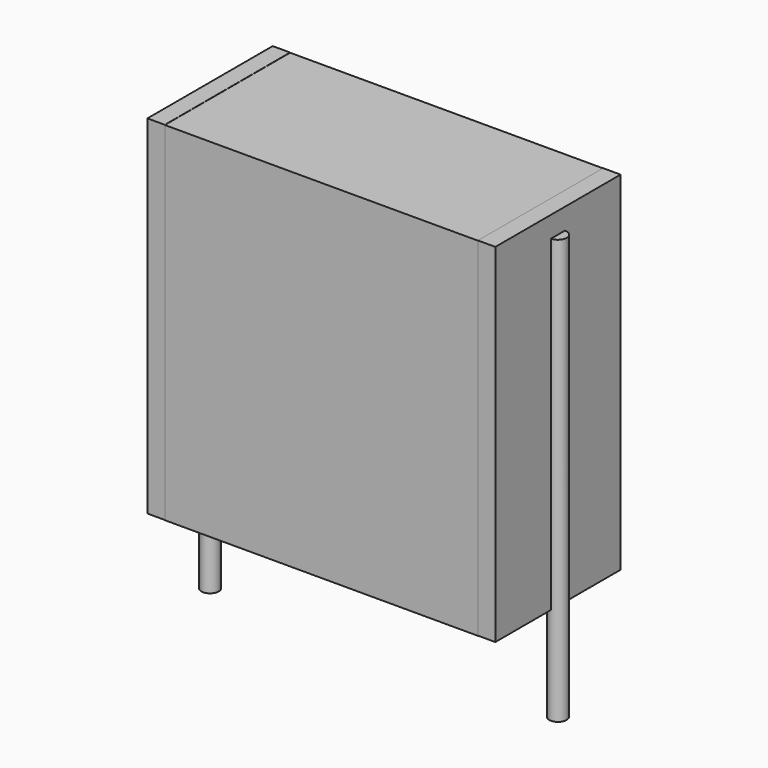
from build123d import *

# Parameters (mm, degrees)
SKETCH_W          = 9
SKETCH_H          = 4.5
PAD_DEPTH         = 10
SKETCH001_R       = 0.25
PAD001_DEPTH      = 9
PAD001_DEPTH_BACK = 3.2
SKETCH002_W       = 0.5
SKETCH002_H       = 4.5
PAD002_DEPTH      = 10


with BuildPart() as pad:
    # Sketch → Pad (new body)
    with BuildSketch(Plane.XY.offset(0.1)):
        with Locations((5, 0)):
            Rectangle(SKETCH_W, SKETCH_H)
    extrude(amount=PAD_DEPTH)


with BuildPart() as pad001:
    # Sketch001 → Pad001 (new body, two sides)
    with BuildSketch(Plane.XY.offset(0.5)) as pad001_sk:
        Circle(SKETCH001_R)
        with Locations((10, 0)):
            Circle(SKETCH001_R)
    extrude(amount=PAD001_DEPTH)
    extrude(pad001_sk.sketch, amount=-PAD001_DEPTH_BACK)


with BuildPart() as pad002:
    # Sketch002 → Pad002 (new body)
    with BuildSketch(Plane.XY.offset(0.105)):
        with Locations((0.25, 0)):
            Rectangle(SKETCH002_W, SKETCH002_H)
        with Locations((9.75, 0)):
            Rectangle(SKETCH002_W, SKETCH002_H)
    extrude(amount=PAD002_DEPTH)


solid = Compound([pad.part, pad001.part, pad002.part])
